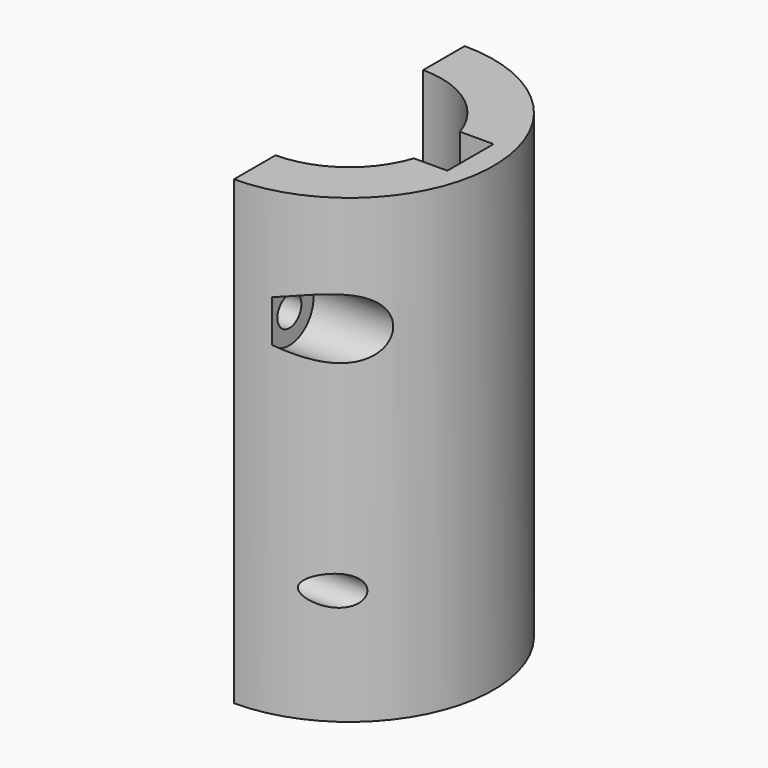
from build123d import *

# Parameters (mm, degrees)
F1_DEPTH = 80
F2_R     = 2.6
F3_DEPTH = 25.001
F6_DEPTH = 25
F7_W     = 10
F7_H     = 10
F8_DEPTH = 80.0010001


with BuildPart() as f1:
    # F0 (on Top) → F1 (new body)
    with BuildSketch(Plane.XY):
        with BuildLine():
            Line((0, -16), (0, -25))
            ThreePointArc((0, -25), (25, 0), (0, 25))
            Line((0, 25), (0, 16))
            ThreePointArc((0, 16), (16, 0), (0, -16))
        make_face()
    extrude(amount=F1_DEPTH)

    # F2 (on Right) → F3 (cut, through all)
    with BuildSketch(Plane.YZ):
        with Locations((-20.5, 20)):
            Circle(F2_R)
        with Locations((-20.5, 60)):
            Circle(F2_R)
        with Locations((20.5, 60)):
            Circle(F2_R)
        with Locations((20.5, 20)):
            Circle(F2_R)
    extrude(amount=F3_DEPTH, mode=Mode.SUBTRACT)

    # F5 (on offset) → F6 (cut)
    with BuildSketch(Plane(origin=(6, 0, 0), x_dir=(0, -1, 0), z_dir=(-1, 0, 0))):
        with BuildLine():
            ThreePointArc((15.25, 60), (20.5, 54.75), (25.75, 60))
            ThreePointArc((25.75, 60), (20.5, 65.25), (15.25, 60))
        make_face()
        with BuildLine():
            ThreePointArc((-15.25, 20), (-16.7876893988, 23.7123106012), (-20.5, 25.25))
            ThreePointArc((-20.5, 25.25), (-24.2123106012, 16.2876893988), (-15.25, 20))
        make_face()
    extrude(amount=-F6_DEPTH, mode=Mode.SUBTRACT)

    # F7 (on Top) → F8 (cut, through all)
    with BuildSketch(Plane.XY):
        with Locations((16, 0)):
            Rectangle(F7_W, F7_H)
    extrude(amount=F8_DEPTH, mode=Mode.SUBTRACT)


solid = f1.part
